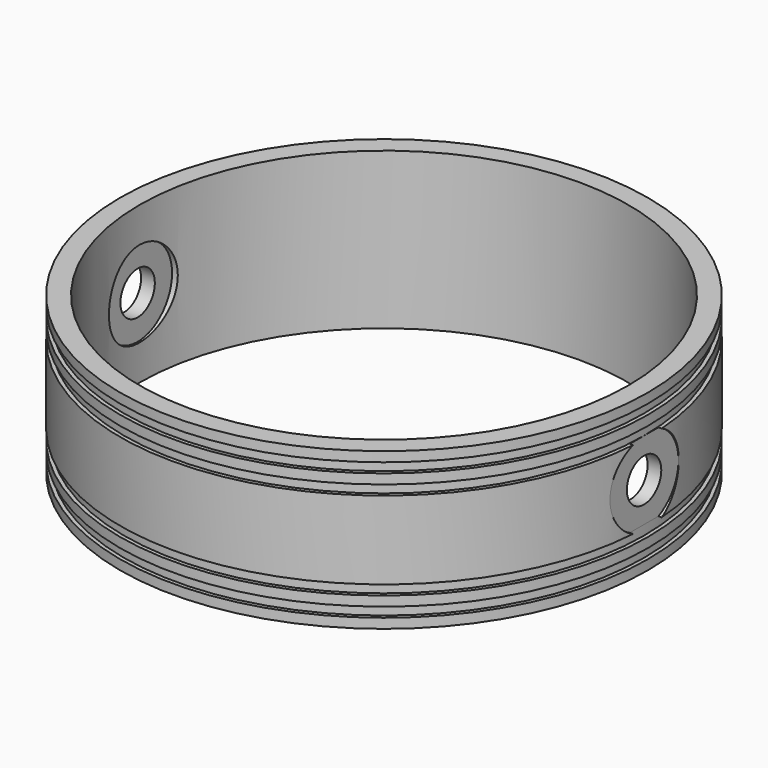
from build123d import *

# Parameters (mm, degrees)
SKETCH005_R      = 140.350312
SKETCH005_R_2    = 133
EXTRUDE011_DEPTH = 5
EXTRUDE010_DEPTH = 5
EXTRUDE008_DEPTH = 5
EXTRUDE009_DEPTH = 5
SKETCH004_R      = 157.293563
EXTRUDE007_DEPTH = 50
SKETCH003_R      = 22
EXTRUDE004_DEPTH = 10
EXTRUDE005_DEPTH = 10
EXTRUDE006_DEPTH = 10
EXTRUDE002_DEPTH = 10
SKETCH002_R      = 11
EXTRUDE_DEPTH    = 150
SKETCH_R         = 134.952227
SKETCH_R_2       = 125
EXTRUDE001_DEPTH = 80


with BuildPart() as extrude011:
    # Sketch005 → Extrude011 (new body)
    with BuildSketch(Plane.XY):
        Circle(SKETCH005_R)
        Circle(SKETCH005_R_2, mode=Mode.SUBTRACT)
    extrude(amount=EXTRUDE011_DEPTH)


with BuildPart() as extrude011_1:
    # Extrude011 placement: moved
    add(extrude011.part.moved(Location((0, 0, -35))))


with BuildPart() as extrude010:
    # Sketch005 → Extrude010 (new body)
    with BuildSketch(Plane.XY):
        Circle(SKETCH005_R)
        Circle(SKETCH005_R_2, mode=Mode.SUBTRACT)
    extrude(amount=EXTRUDE010_DEPTH)


with BuildPart() as extrude010_1:
    # Extrude010 placement: moved
    add(extrude010.part.moved(Location((0, 0, -25))))


with BuildPart() as extrude008:
    # Sketch005 → Extrude008 (new body)
    with BuildSketch(Plane.XY):
        Circle(SKETCH005_R)
        Circle(SKETCH005_R_2, mode=Mode.SUBTRACT)
    extrude(amount=EXTRUDE008_DEPTH)


with BuildPart() as extrude008_1:
    # Extrude008 placement: moved
    add(extrude008.part.moved(Location((0, 0, 20))))


with BuildPart() as extrude009:
    # Sketch005 → Extrude009 (new body)
    with BuildSketch(Plane.XY):
        Circle(SKETCH005_R)
        Circle(SKETCH005_R_2, mode=Mode.SUBTRACT)
    extrude(amount=EXTRUDE009_DEPTH)


with BuildPart() as extrude009_1:
    # Extrude009 placement: moved
    add(extrude009.part.moved(Location((0, 0, 30))))


with BuildPart() as extrude007:
    # Sketch004 → Extrude007 (new body)
    with BuildSketch(Plane.XY):
        Circle(SKETCH004_R)
    extrude(amount=EXTRUDE007_DEPTH)


with BuildPart() as extrude007_1:
    # Extrude007 placement: moved
    add(extrude007.part.moved(Location((0, 0, 51))))


with BuildPart() as extrude004:
    # Sketch003 (on Face3 of Extrude) → Extrude004 (new body)
    with BuildSketch(Plane.YZ.offset(150)):
        Circle(SKETCH003_R)
    extrude(amount=-EXTRUDE004_DEPTH)


with BuildPart() as extrude004_1:
    # Extrude004 placement: moved
    add(extrude004.part.moved(Location((-283, 0, 0))))


with BuildPart() as extrude005:
    # Sketch003 (on Face3 of Extrude) → Extrude005 (new body)
    with BuildSketch(Plane.YZ.offset(150)):
        Circle(SKETCH003_R)
    extrude(amount=-EXTRUDE005_DEPTH)


with BuildPart() as extrude005_1:
    # Extrude005 placement: moved
    add(extrude005.part.moved(Location((-266, 0, 0))))


with BuildPart() as extrude006:
    # Sketch003 (on Face3 of Extrude) → Extrude006 (new body)
    with BuildSketch(Plane.YZ.offset(150)):
        Circle(SKETCH003_R)
    extrude(amount=-EXTRUDE006_DEPTH)


with BuildPart() as extrude006_1:
    # Extrude006 placement: moved
    add(extrude006.part.moved(Location((-24, 0, 0))))


with BuildPart() as extrude002:
    # Sketch003 (on Face3 of Extrude) → Extrude002 (new body)
    with BuildSketch(Plane.YZ.offset(150)):
        Circle(SKETCH003_R)
    extrude(amount=-EXTRUDE002_DEPTH)


with BuildPart() as extrude002_1:
    # Extrude002 placement: moved
    add(extrude002.part.moved(Location((-7, 0, 0))))


with BuildPart() as extrude_body:
    # Sketch002 → Extrude (new body, symmetric)
    with BuildSketch(Plane.YZ):
        Circle(SKETCH002_R)
    extrude(amount=EXTRUDE_DEPTH, both=True)


with BuildPart() as cut009:
    # Sketch → Extrude001 (new body)
    with BuildSketch(Plane.XY):
        Circle(SKETCH_R)
        Circle(SKETCH_R_2, mode=Mode.SUBTRACT)
    extrude(amount=EXTRUDE001_DEPTH)


with BuildPart() as cut009_1:
    # Extrude001 placement: moved
    add(cut009.part.moved(Location((0, 0, -40))))

    # Cut: cut Extrude body
    add(extrude_body.part, mode=Mode.SUBTRACT)

    # Cut001: cut Extrude002
    add(extrude002_1.part, mode=Mode.SUBTRACT)

    # Cut002: cut Extrude006
    add(extrude006_1.part, mode=Mode.SUBTRACT)

    # Cut003: cut Extrude005
    add(extrude005_1.part, mode=Mode.SUBTRACT)

    # Cut004: cut Extrude004
    add(extrude004_1.part, mode=Mode.SUBTRACT)

    # Cut005: cut Extrude007
    add(extrude007_1.part, mode=Mode.SUBTRACT)

    # Cut006: cut Extrude009
    add(extrude009_1.part, mode=Mode.SUBTRACT)

    # Cut007: cut Extrude008
    add(extrude008_1.part, mode=Mode.SUBTRACT)

    # Cut008: cut Extrude010
    add(extrude010_1.part, mode=Mode.SUBTRACT)

    # Cut009: cut Extrude011
    add(extrude011_1.part, mode=Mode.SUBTRACT)


solid = cut009_1.part
